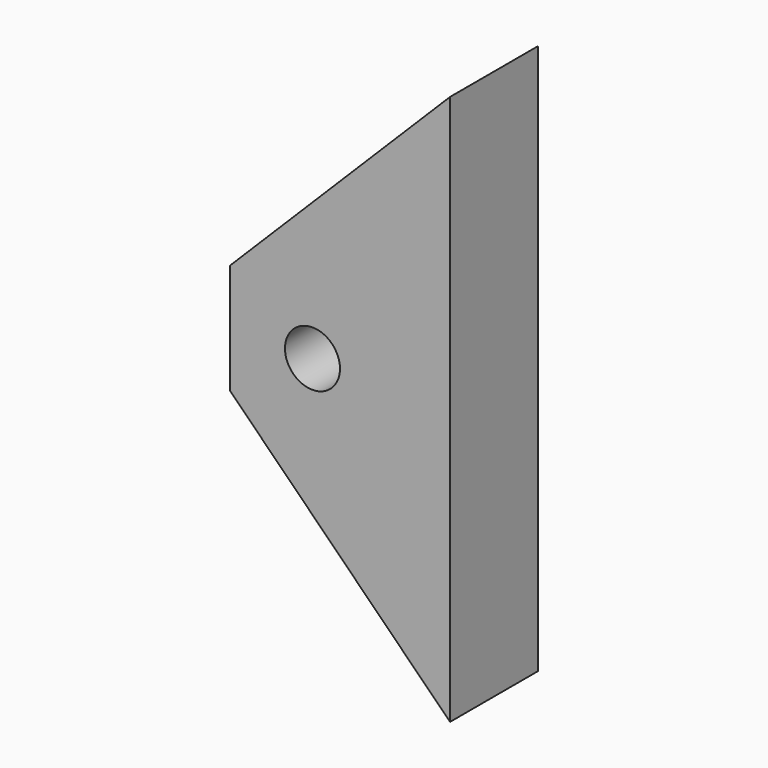
from build123d import *

# Parameters (mm, degrees)
F0_R          = 5
F1_DEPTH      = 10
F1_DEPTH_BACK = 10


with BuildPart() as f1:
    # F0 (on Front) → F1 (new body, two sides)
    with BuildSketch(Plane.XZ) as f1_sk:
        Polygon((0, -50), (0, 0), (0, 50), (-40, 10), (-40, 0), (-40, -10), align=None)
        with Locations((-25, 0)):
            Circle(F0_R, mode=Mode.SUBTRACT)
    extrude(amount=F1_DEPTH)
    extrude(f1_sk.sketch, amount=-F1_DEPTH_BACK)


solid = f1.part
